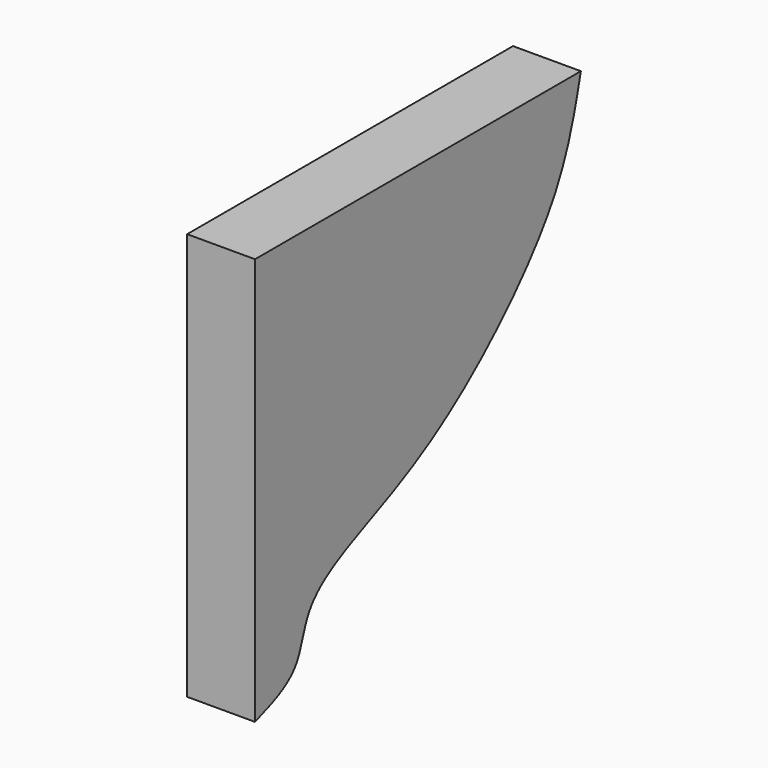
from build123d import *

# Parameters (mm, degrees)
F1_DEPTH = 38.1


with BuildPart() as f1:
    # F0 (on Right) → F1 (new body)
    with BuildSketch(Plane.YZ):
        with BuildLine():
            Line((0, 228.6), (0, 0))
            add(Edge.make_bspline(
                [(0, 0), (10.9204787336, 3.8286195096), (31.5962732673, 11.0773631096), (34.4784305215, 40.0988468331), (57.2934481538, 57.6517611977), (97.4696235321, 73.3540699636), (149.2515631329, 102.5087907854), (214.5951937367, 168.5002947664), (224.2601594215, 209.9761693932), (228.6, 228.6)],
                knots=[0, 0, 0, 0, 0.1182909991, 0.2239609135, 0.3328799794, 0.4697743768, 0.6348966766, 0.836058371, 1, 1, 1, 1], degree=3))
            Line((228.6, 228.6), (0, 228.6))
        make_face()
    extrude(amount=F1_DEPTH)


solid = f1.part
